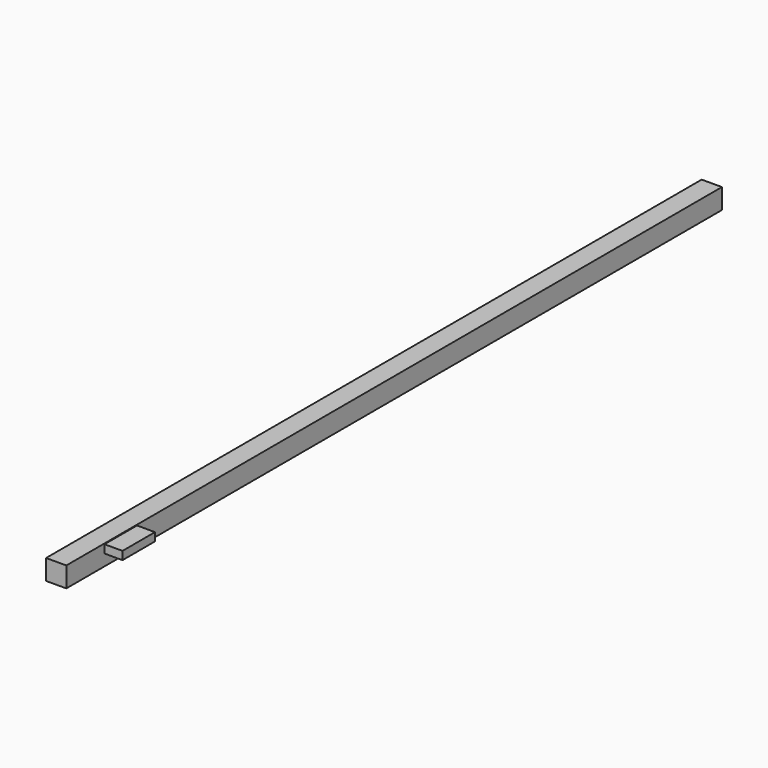
from build123d import *

# Parameters (mm, degrees)
F0_W     = 62.712416
F0_H     = 62.681198
F1_DEPTH = 2540
F2_W     = 55.731669
F2_H     = 125.846386
F3_DEPTH = 25.4


with BuildPart() as f1:
    # F0 (on Front) → F1 (new body)
    with BuildSketch(Plane.XZ):
        with Locations((31.356208, 31.340599)):
            Rectangle(F0_W, F0_H)
    extrude(amount=F1_DEPTH)


with BuildPart() as f3:
    # F2 (on face) → F3 (new body)
    with BuildSketch(Plane.XY.offset(62.681198)):
        with Locations((123.783774, -2370.589495)):
            Rectangle(F2_W, F2_H)
    extrude(amount=F3_DEPTH)


solid = Compound([f1.part, f3.part])
